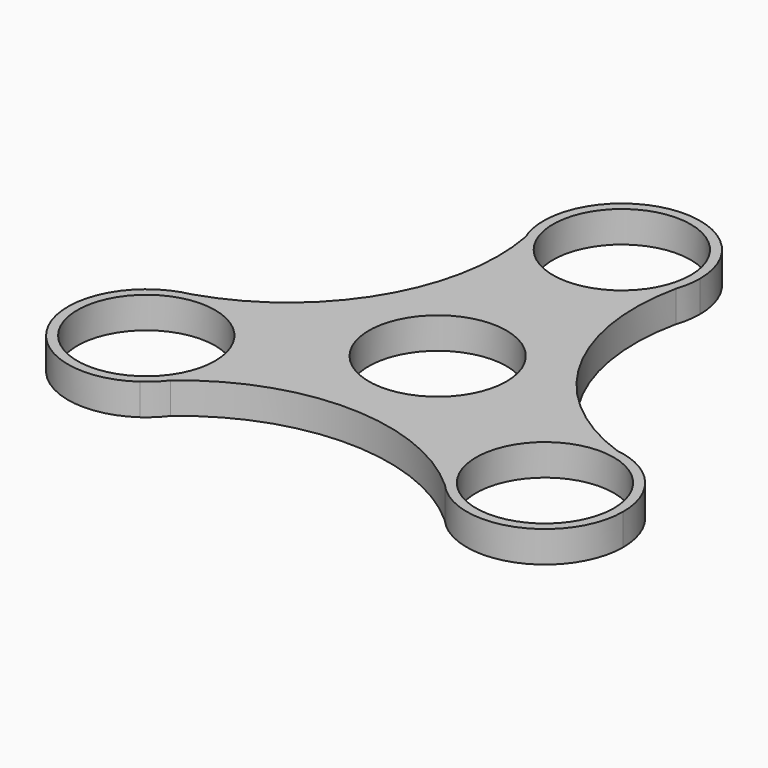
from build123d import *

# Parameters (mm, degrees)
F0_R     = 11
F1_DEPTH = 5


with BuildPart() as f1:
    # F0 (on Top) → F1 (new body)
    with BuildSketch(Plane.XY):
        with BuildLine():
            ThreePointArc((11.8420038681, 32.7638646996), (12.3344040868, 34.7380581693), (12.5, 36.7659821877))
            ThreePointArc((12.5, 36.7659821877), (-0.5453664976, 49.2540795361), (-12.4524120613, 35.6762878018))
            ThreePointArc((-12.4524120613, 35.6762878018), (-11.9402706418, 33.8261206815), (-11.5348674443, 31.9496731192))
            ThreePointArc((-11.5348674443, 31.9496731192), (0.4350978948, 24.2735568899), (11.8420038681, 32.7638646996))
        make_face()
        with Locations((0, 36.7659821877)):
            Circle(F0_R, mode=Mode.SUBTRACT)
        with BuildLine():
            ThreePointArc((-11.5348674443, 31.9496731192), (-11.9402706418, 33.8261206815), (-12.4524120613, 35.6762878018))
            ThreePointArc((-12.4524120613, 35.6762878018), (-12.1375165816, 33.7775559745), (-11.5348674443, 31.9496731192))
        make_face()
        with BuildLine():
            ThreePointArc((33.436662286, -5.9853483236), (15.3144073066, 9.3071296076), (11.8420038681, 32.7638646996))
            ThreePointArc((11.8420038681, 32.7638646996), (0.4350978948, 24.2735568899), (-11.5348674443, 31.9496731192))
            ThreePointArc((-11.5348674443, 31.9496731192), (-15.7174143299, 8.6091009676), (-34.29534109, -6.1264561683))
            ThreePointArc((-34.29534109, -6.1264561683), (-23.9168388094, -8.7150458234), (-19.3402745697, -18.3829910939))
            ThreePointArc((-19.3402745697, -18.3829910939), (-19.9979564562, -22.3841786301), (-21.9017948417, -25.9643247956))
            ThreePointArc((-21.9017948417, -25.9643247956), (0.4030070232, -17.9162305753), (22.453337222, -26.6374085313))
            ThreePointArc((22.453337222, -26.6374085313), (20.8039679594, -12.513584275), (33.436662286, -5.9853483236))
        make_face()
        Circle(F0_R, mode=Mode.SUBTRACT)
        with BuildLine():
            ThreePointArc((37.1227775797, -7.0540387174), (35.2644151426, -6.5724826369), (33.436662286, -5.9853483236))
            ThreePointArc((33.436662286, -5.9853483236), (20.8039679594, -12.513584275), (22.453337222, -26.6374085313))
            ThreePointArc((22.453337222, -26.6374085313), (36.2512428961, -30.0788603828), (44.3402745697, -18.3829910939))
            ThreePointArc((44.3402745697, -18.3829910939), (42.3826008695, -11.6666411784), (37.1227775797, -7.0540387174))
        make_face()
        with Locations((31.8402745697, -18.3829910939)):
            Circle(F0_R, mode=Mode.SUBTRACT)
        with BuildLine():
            ThreePointArc((37.1227775797, -7.0540387174), (35.3209798424, -6.3773802887), (33.436662286, -5.9853483236))
            ThreePointArc((33.436662286, -5.9853483236), (35.2644151426, -6.5724826369), (37.1227775797, -7.0540387174))
        make_face()
        with BuildLine():
            ThreePointArc((-19.3402745697, -18.3829910939), (-23.9168388094, -8.7150458234), (-34.29534109, -6.1264561683))
            ThreePointArc((-34.29534109, -6.1264561683), (-43.3325593622, -23.3000420644), (-24.6703655184, -28.6222490844))
            ThreePointArc((-24.6703655184, -28.6222490844), (-23.3241445007, -27.2536380446), (-21.9017948417, -25.9643247956))
            ThreePointArc((-21.9017948417, -25.9643247956), (-19.9979564562, -22.3841786301), (-19.3402745697, -18.3829910939))
        make_face()
        with Locations((-31.8402745697, -18.3829910939)):
            Circle(F0_R, mode=Mode.SUBTRACT)
        with BuildLine():
            ThreePointArc((-21.9017948417, -25.9643247956), (-23.3241445007, -27.2536380446), (-24.6703655184, -28.6222490844))
            ThreePointArc((-24.6703655184, -28.6222490844), (-23.1834632609, -27.4001756857), (-21.9017948417, -25.9643247956))
        make_face()
    extrude(amount=F1_DEPTH)


solid = f1.part
